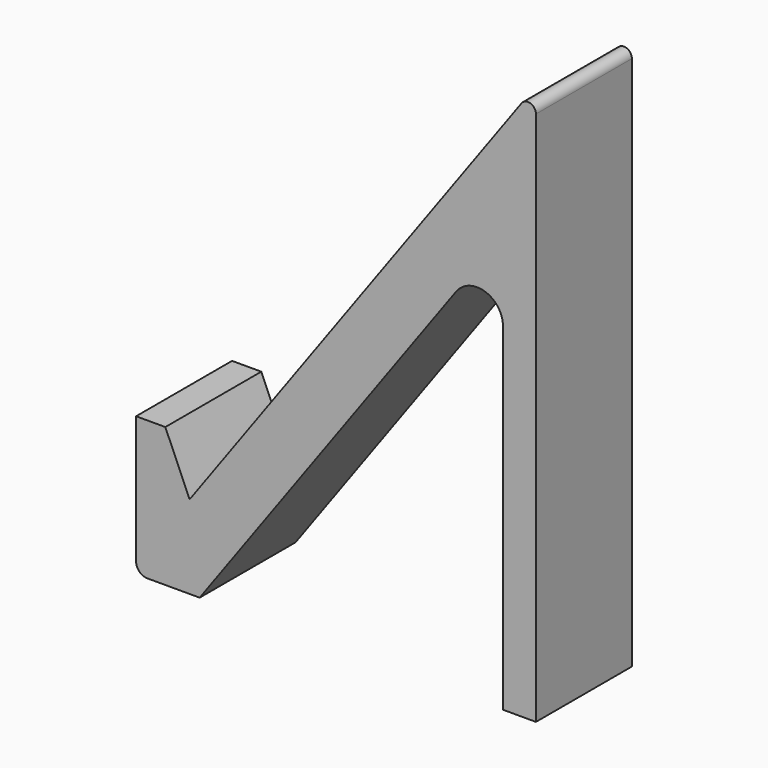
from build123d import *

# Parameters (mm, degrees)
PAD_DEPTH = 15
FILLET_R  = 1


with BuildPart() as part:
    # Sketch (on XZ_Plane of Origin) → Pad (new body)
    with BuildSketch(Plane.XZ):
        with BuildLine():
            Line((50, 0), (49.999618, 70.000262))
            Line((49.999618, 70.000262), (6.693182, 10.410738))
            Line((6.693182, 10.410738), (3.65564, 17.3888))
            Line((3.65564, 17.3888), (0, 17.3888))
            Line((0, 17.3888), (0, 1.424316))
            ThreePointArc((0, 1.424316), (0.417173, 0.417173), (1.424316, 0))
            Line((1.424316, 0), (7.946815, 0))
            Line((7.946815, 0), (40.015537, 44.126464))
            ThreePointArc((45.879073, 42.220854), (43.63951, 45.303564), (40.015537, 44.126464))
            Line((45.879073, 42.220854), (45.879073, 0))
            Line((45.879073, 0), (50, 0))
        make_face()
    extrude(amount=PAD_DEPTH)

    # Fillet
    fillet_edges = [part.edges().sort_by_distance(p)[0] for p in [
        (49.999618, -7.5, 70.000262),
    ]]
    fillet(fillet_edges, radius=FILLET_R)


solid = part.part
